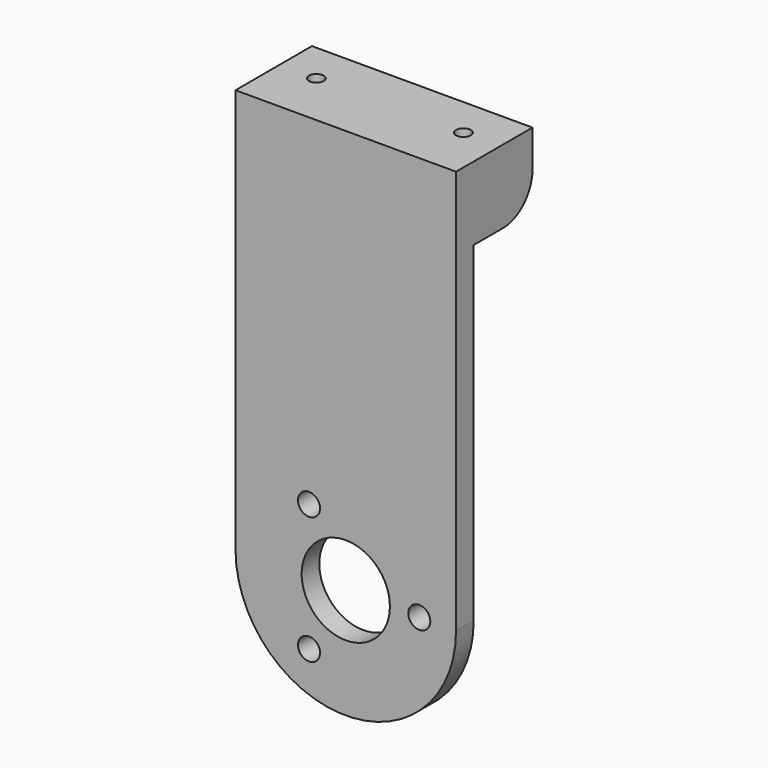
from build123d import *

# Parameters (mm, degrees)
CYLINDER037_R     = 1
CYLINDER037_DEPTH = 8
CYLINDER033_R     = 6
CYLINDER033_DEPTH = 3
CYLINDER034_R     = 1.5
CYLINDER034_DEPTH = 3
ARRAY007_COUNT    = 3
CYLINDER036_R     = 1
CYLINDER036_DEPTH = 8
BOX003_W          = 30
BOX003_H          = 3
BOX003_DEPTH      = 55
BOX005_W          = 30
BOX005_H          = 10
BOX005_DEPTH      = 10
FILLET003_R       = 5
CYLINDER032_R     = 15
CYLINDER032_DEPTH = 3


with BuildPart() as payload_plate_screw002:
    # Cylinder037 → Cylinder037 (new body)
    with BuildSketch(Plane(origin=(-10, -33, 144.7), x_dir=(1, 0, 0), z_dir=(0, 0, 1))):
        Circle(CYLINDER037_R)
    extrude(amount=CYLINDER037_DEPTH)


with BuildPart() as arm_bottom_arc_axis_clearance:
    # Cylinder033 → Cylinder033 (new body)
    with BuildSketch(Plane(origin=(0, -37.5, 97.7), x_dir=(1, 0, 0), z_dir=(0, -1, 0))):
        Circle(CYLINDER033_R)
    extrude(amount=CYLINDER033_DEPTH)


with BuildPart() as arm_screw_holes:
    # Cylinder034 → Cylinder034 (new body)
    with BuildSketch(Plane(origin=(10, -37.5, 97.7), x_dir=(1, 0, 0), z_dir=(0, -1, 0))):
        Circle(CYLINDER034_R)
    extrude(amount=CYLINDER034_DEPTH)

    # Array007: arm-screw-holes ×3 about axis
    array007_axis = Axis((0, 0, 97.7), (0, 1, 0))


with BuildPart() as arm_screw_holes_1:
    add(arm_screw_holes.part)
    for i in range(1, ARRAY007_COUNT):
        add(arm_screw_holes.part.rotate(array007_axis, i * 360 / ARRAY007_COUNT))


with BuildPart() as arm_payload_plate_screw_holes:
    # Cylinder036 → Cylinder036 (new body)
    with BuildSketch(Plane(origin=(10, -33, 144.7), x_dir=(1, 0, 0), z_dir=(0, 0, 1))):
        Circle(CYLINDER036_R)
    extrude(amount=CYLINDER036_DEPTH)

    # Compound: union payload-plate-screw002, arm-bottom-arc-axis-clearance, arm-screw-holes
    add(payload_plate_screw002.part)
    add(arm_bottom_arc_axis_clearance.part)
    add(arm_screw_holes_1.part)


with BuildPart() as arm:
    # Box003 → Box003 (new body)
    with BuildSketch(Plane(origin=(-15, -40.5, 97.7), x_dir=(1, 0, 0), z_dir=(0, 0, 1))):
        with Locations((15, 1.5)):
            Rectangle(BOX003_W, BOX003_H)
    extrude(amount=BOX003_DEPTH)


with BuildPart() as arm_screw_block_with_fillet:
    # Box005 → Box005 (new body)
    with BuildSketch(Plane(origin=(-15, -37.5, 142.7), x_dir=(1, 0, 0), z_dir=(0, 0, 1))):
        with Locations((15, 5)):
            Rectangle(BOX005_W, BOX005_H)
    extrude(amount=BOX005_DEPTH)

    # Fillet003
    fillet003_edges = [arm_screw_block_with_fillet.edges().sort_by_distance(p)[0] for p in [
        (0, -27.5, 142.7),
    ]]
    fillet(fillet003_edges, radius=FILLET003_R)


with BuildPart() as tilt_arm:
    # Cylinder032 → Cylinder032 (new body)
    with BuildSketch(Plane(origin=(0, -37.5, 97.7), x_dir=(1, 0, 0), z_dir=(0, -1, 0))):
        Circle(CYLINDER032_R)
    extrude(amount=CYLINDER032_DEPTH)

    # Fusion015: union arm, arm-screw-block-with-fillet
    add(arm.part)
    add(arm_screw_block_with_fillet.part)

    # Cut026: cut arm-payload-plate-screw-holes
    add(arm_payload_plate_screw_holes.part, mode=Mode.SUBTRACT)


solid = tilt_arm.part
